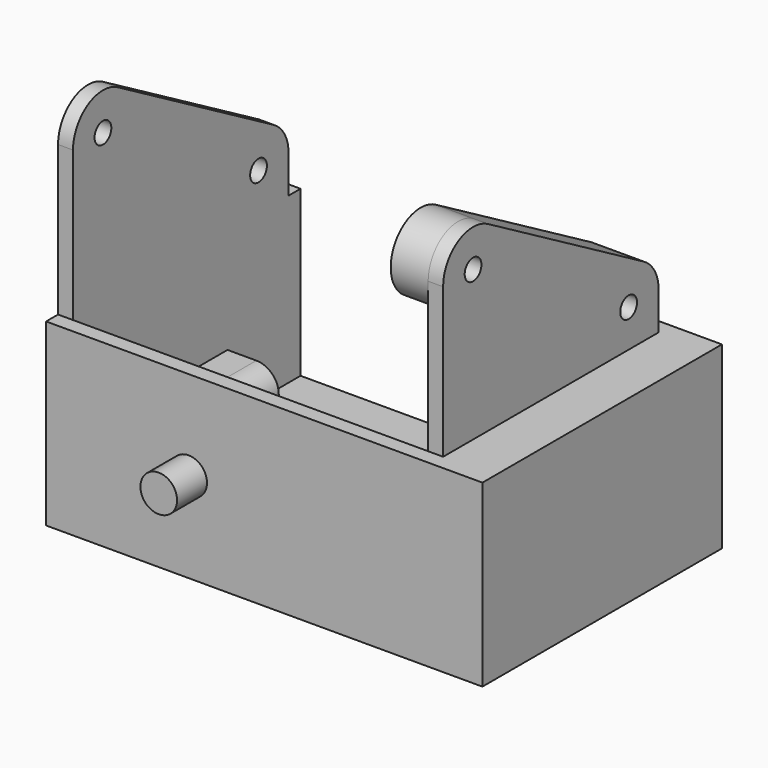
from build123d import *

# Parameters (mm, degrees)
SKETCH_W        = 54.3
SKETCH_H        = 38
PAD_DEPTH       = 2
SKETCH001_W     = 54.3
SKETCH001_H     = 2
PAD001_DEPTH    = 22
SKETCH002_R     = 2.45
PAD002_DEPTH    = 5
SKETCH003_W     = 40
SKETCH003_H     = 22
PAD003_DEPTH    = 2
SKETCH004_W     = 40
SKETCH004_H     = 22
PAD004_DEPTH    = 2
SKETCH005_W     = 6.85
SKETCH005_H     = 15
PAD005_DEPTH    = 8
SKETCH006_R     = 1.4
POCKET_DEPTH    = 15
FILLET_R        = 3
FILLET001_R     = 2
SKETCH007_W     = 6.85
SKETCH007_H     = 25.8
PAD006_DEPTH    = 20
SKETCH008_R     = 1.4
POCKET001_DEPTH = 15
PAD007_DEPTH    = 2
SKETCH010_R     = 1.4
PAD008_DEPTH    = 2
SKETCH011_R     = 1.4
PAD009_DEPTH    = 2
SKETCH012_R     = 1.4
PAD010_DEPTH    = 5
SKETCH013_W     = 6.395784
SKETCH013_H     = 2
PAD011_DEPTH    = 5
CHAMFER_SIZE2   = 1.5
CHAMFER_SIZE    = 4


with BuildPart() as body:
    # Sketch → Pad (new body)
    with BuildSketch(Plane.XY):
        with Locations((27.15, 21)):
            Rectangle(SKETCH_W, SKETCH_H)
    extrude(amount=PAD_DEPTH)

    # Sketch001 → Pad001 (join)
    with BuildSketch(Plane.XY):
        with Locations((27.15, 1)):
            Rectangle(SKETCH001_W, SKETCH001_H)
    extrude(amount=PAD001_DEPTH)

    # Sketch002 → Pad002 (join)
    with BuildSketch(Plane.XZ):
        with Locations((37.25, 12)):
            Circle(SKETCH002_R)
    extrude(amount=PAD002_DEPTH)

    # Sketch003 (on Face2 of Pad002) → Pad003 (join)
    with BuildSketch(Plane(origin=(0, 0, 0), x_dir=(0, -1, 0), z_dir=(-1, 0, 0))):
        with Locations((-20, 11)):
            Rectangle(SKETCH003_W, SKETCH003_H)
    extrude(amount=PAD003_DEPTH)

    # Sketch004 (on Face3 of Pad003) → Pad004 (join)
    with BuildSketch(Plane.YZ.offset(54.3)):
        with Locations((20, 11)):
            Rectangle(SKETCH004_W, SKETCH004_H)
    extrude(amount=PAD004_DEPTH)

    # Sketch005 (on Face5 of Pad004) → Pad005 (join)
    with BuildSketch(Plane.XY.offset(2)):
        with Locations((50.875, 20.3)):
            Rectangle(SKETCH005_W, SKETCH005_H)
    extrude(amount=PAD005_DEPTH)

    # Sketch006 (on Face15 of Pad005) → Pocket (cut)
    with BuildSketch(Plane(origin=(0, 27.8, 0), x_dir=(-1, 0, 0), z_dir=(0, 1, 0))):
        with Locations((-51.3, 7)):
            Circle(SKETCH006_R)
    extrude(amount=-POCKET_DEPTH, mode=Mode.SUBTRACT)

    # Fillet
    fillet_edges = [body.edges().sort_by_distance(p)[0] for p in [
        (47.45, 20.3, 10),
    ]]
    fillet(fillet_edges, radius=FILLET_R)

    # Fillet001
    fillet001_edges = [body.edges().sort_by_distance(p)[0] for p in [
        (52.375, 12.8, 10),
    ]]
    fillet(fillet001_edges, radius=FILLET001_R)

    # Sketch007 (on Face5 of Fillet001) → Pad006 (join)
    with BuildSketch(Plane.XY.offset(2)):
        with Locations((3.425, 14.9)):
            Rectangle(SKETCH007_W, SKETCH007_H)
    extrude(amount=PAD006_DEPTH)

    # Sketch008 (on Face14 of Pad006) → Pocket001 (cut)
    with BuildSketch(Plane(origin=(0, 27.8, 0), x_dir=(-1, 0, 0), z_dir=(0, 1, 0))):
        with Locations((-3, 7)):
            Circle(SKETCH008_R)
        with Locations((-3, 17)):
            Circle(SKETCH008_R)
    extrude(amount=-POCKET001_DEPTH, mode=Mode.SUBTRACT)

    # Sketch009 (on Face21 of Pocket001) → Pad007 (join)
    with BuildSketch(Plane.XY.offset(22)):
        Polygon((54.3, 2), (54.3, 40), (56.3, 40), (56.3, 0), (-2, 0), (-2, 40), (6.85, 40), (6.85, 2), align=None)
    extrude(amount=PAD007_DEPTH)

    # Sketch010 (on Face22 of Pad007) → Pad008 (join)
    with BuildSketch(Plane.YZ.offset(6.85)):
        with BuildLine():
            Line((2, 24), (38, 24))
            Line((38, 29), (38, 24))
            ThreePointArc((38, 29), (37.326745, 31.511013), (35.487593, 33.348396))
            Line((35.487593, 33.348396), (9.497223, 48.331729))
            ThreePointArc((9.497223, 48.331729), (4.498612, 48.329325), (2, 44))
            Line((2, 44), (2, 24))
        make_face()
        with Locations((7, 44)):
            Circle(SKETCH010_R, mode=Mode.SUBTRACT)
        with Locations((32.980762, 29)):
            Circle(SKETCH010_R, mode=Mode.SUBTRACT)
    extrude(amount=-PAD008_DEPTH)

    # Sketch011 (on Face20 of Pad008) → Pad009 (join)
    with BuildSketch(Plane(origin=(54.3, 0, 0), x_dir=(0, -1, 0), z_dir=(-1, 0, 0))):
        with BuildLine():
            Line((-38, 24), (-38, 29))
            ThreePointArc((-35.487593, 33.348396), (-37.326745, 31.511013), (-38, 29))
            Line((-35.487593, 33.348396), (-9.497223, 48.331729))
            ThreePointArc((-2, 44), (-4.498612, 48.329325), (-9.497223, 48.331729))
            Line((-2, 44), (-2, 24))
            Line((-2, 24), (-38, 24))
        make_face()
        with Locations((-7, 44)):
            Circle(SKETCH011_R, mode=Mode.SUBTRACT)
        with Locations((-32.980762, 29)):
            Circle(SKETCH011_R, mode=Mode.SUBTRACT)
    extrude(amount=-PAD009_DEPTH)

    # Sketch012 (on Face35 of Pad009) → Pad010 (join)
    with BuildSketch(Plane.YZ.offset(6.85)):
        with BuildLine():
            Line((38, 29), (38, 24))
            Line((38, 24), (31.604216, 24))
            Line((30.473931, 24.651604), (31.604216, 24))
            Line((4.502799, 39.668258), (30.473931, 24.651604))
            ThreePointArc((9.497223, 48.331729), (2.668265, 46.497212), (4.502799, 39.668258))
            Line((9.497223, 48.331729), (35.487593, 33.348396))
            ThreePointArc((38, 29), (37.326745, 31.511013), (35.487593, 33.348396))
        make_face()
        with Locations((7, 44)):
            Circle(SKETCH012_R, mode=Mode.SUBTRACT)
        with Locations((32.980762, 29)):
            Circle(SKETCH012_R, mode=Mode.SUBTRACT)
    extrude(amount=PAD010_DEPTH)

    # Sketch013 (on Face22 of Pad010) → Pad011 (join)
    with BuildSketch(Plane.YZ.offset(6.85)):
        with Locations((34.802108, 23)):
            Rectangle(SKETCH013_W, SKETCH013_H)
    extrude(amount=PAD011_DEPTH)

    # Chamfer
    chamfer_edges = [body.edges().sort_by_distance(p)[0] for p in [
        (11.85, 34.802108, 22),
    ]]
    chamfer_side = body.faces().sort_by_distance((9.35, 34.802108, 22))[0]
    chamfer(chamfer_edges, length=CHAMFER_SIZE, length2=CHAMFER_SIZE2, reference=chamfer_side)


with BuildPart() as part_mirroring:
    # Part__Mirroring: instance of Body
    add(body.part.mirror(Plane(origin=(0, 0, 0), x_dir=(0, -1, 0), z_dir=(1, 0, 0))))


solid = part_mirroring.part
